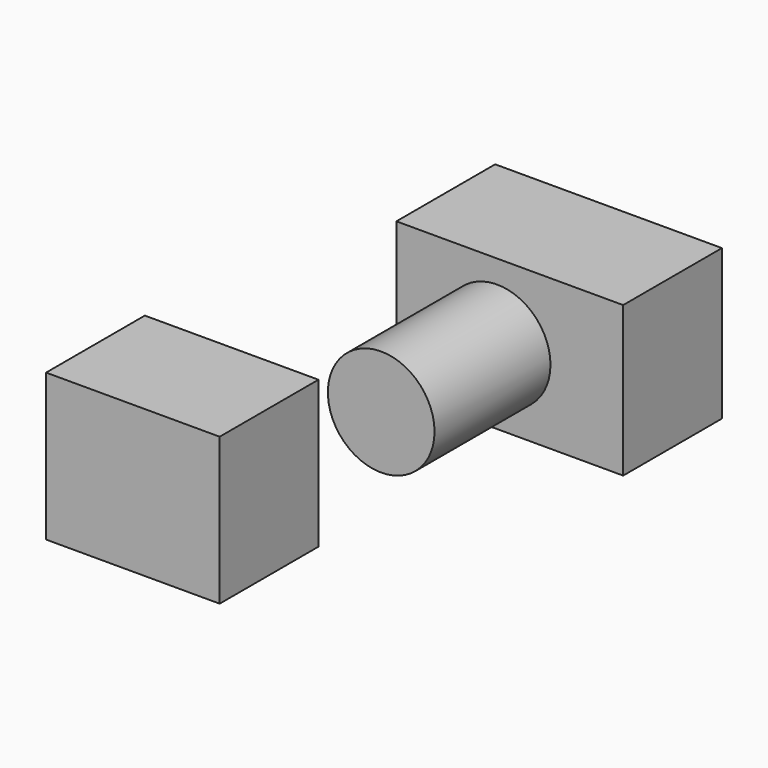
from build123d import *

# Parameters (mm, degrees)
F0_W     = 90.358175
F0_H     = 76.519538
F0_W_2   = 118.03545
F0_H_2   = 78.147609
F1_DEPTH = 64.262
F2_R     = 27.758168
F3_DEPTH = 75.438


with BuildPart() as f1:
    # F0 (on Front) → F1 (new body)
    with BuildSketch(Plane.XZ):
        with Locations((-81.022006, -59.371373)):
            Rectangle(F0_W, F0_H)
        with Locations((115.161054, 68.43253)):
            Rectangle(F0_W_2, F0_H_2)
    extrude(amount=F1_DEPTH)

    # F2 (on face) → F3 (join)
    with BuildSketch(Plane.XZ.offset(64.262)):
        with Locations((108.585306, 67.8358)):
            Circle(F2_R)
    extrude(amount=F3_DEPTH)


solid = f1.part
